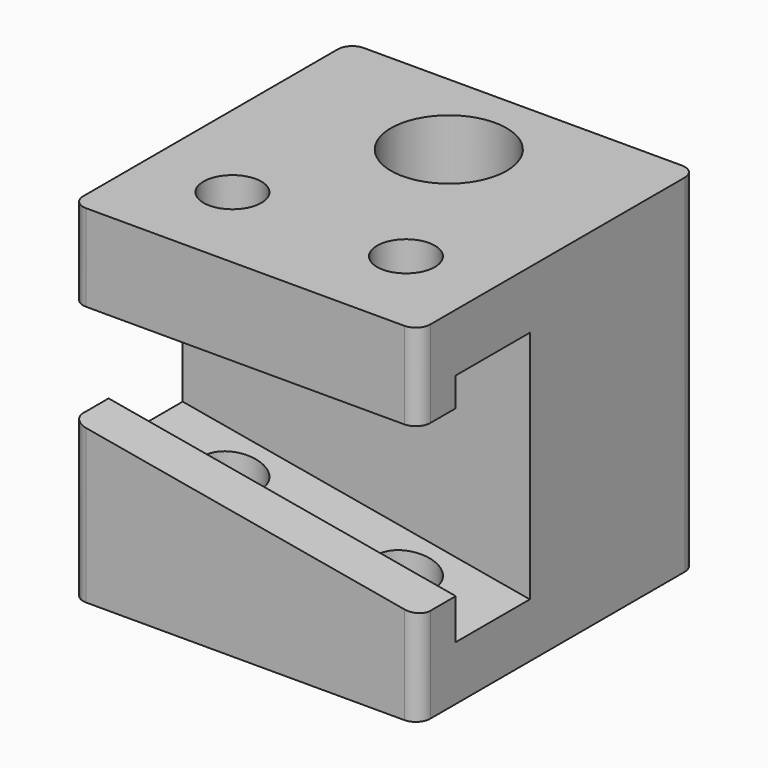
from build123d import *

# Parameters (mm, degrees)
F0_W     = 76.2
F0_H     = 12.7
F0_H_2   = 6.35
F1_DEPTH = 45.72
F2_DEPTH = 20.32
F3_W     = 76.2
F3_H     = 19.05
F4_DEPTH = 10.16
F5_R     = 6.35
F5_R_2   = 12.7
F6_DEPTH = 76.201
F7_R     = 3.175


with BuildPart() as f1:
    # F0 (on Front) → F1 (new body)
    with BuildSketch(Plane.XZ):
        with Locations((38.1, 69.85)):
            Rectangle(F0_W, F0_H)
        with Locations((38.1, 60.325)):
            Rectangle(F0_W, F0_H_2)
        Polygon((0, 57.15), (0, 34.29), (76.2, 20.853884), (76.2, 57.15), align=None)
        Polygon((0, 34.29), (0, 25.4), (76.2, 11.963884), (76.2, 20.853884), align=None)
        Polygon((0, 25.4), (0, 0), (76.2, 0), (76.2, 11.963884), align=None)
    extrude(amount=-F1_DEPTH)

    # F0 (on Front) → F2 (join)
    with BuildSketch(Plane.XZ):
        with Locations((38.1, 69.85)):
            Rectangle(F0_W, F0_H)
        Polygon((0, 25.4), (0, 0), (76.2, 0), (76.2, 11.963884), align=None)
    extrude(amount=F2_DEPTH)

    # F3 (on face) → F4 (join)
    with BuildSketch(Plane.XZ.offset(20.32)):
        with Locations((38.1, 66.675)):
            Rectangle(F3_W, F3_H)
        with Locations((38.1, 66.675)):
            Rectangle(F3_W, F3_H)
        Polygon((76.2, 20.853884), (0, 34.29), (0, 0), (76.2, 0), align=None)
    extrude(amount=F4_DEPTH)

    # F5 (on face) → F6 (cut, through all)
    with BuildSketch(Plane.XY.offset(76.2)):
        with Locations((19.05, -10.16)):
            Circle(F5_R)
        with Locations((57.15, -10.16)):
            Circle(F5_R)
        with Locations((38.1, 25.4)):
            Circle(F5_R_2)
    extrude(amount=-F6_DEPTH, mode=Mode.SUBTRACT)

    # F7
    f7_edges = [f1.edges().sort_by_distance(p)[0] for p in [
        (76.2, -30.48, 10.426942),
        (0, -30.48, 17.145),
        (76.2, 45.72, 38.1),
        (0, 45.72, 38.1),
        (76.2, -30.48, 66.675),
        (0, -30.48, 66.675),
    ]]
    fillet(f7_edges, radius=F7_R)


solid = f1.part
